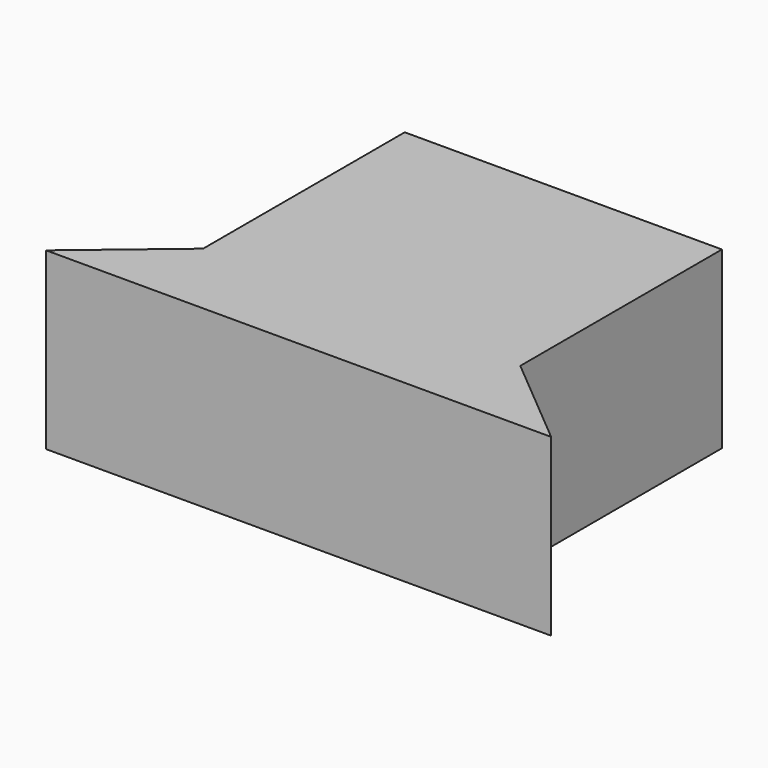
from build123d import *

# Parameters (mm, degrees)
F0_W     = 517.525
F0_H     = 400.05
F1_DEPTH = 88.9
F3_DEPTH = 406.4


with BuildPart() as f1:
    # F0 (on Top) → F1 (new body)
    with BuildSketch(Plane.XY):
        with Locations((258.7625, 176.492612)):
            Rectangle(F0_W, F0_H)
    extrude(amount=F1_DEPTH)

    # F2 (on face) → F3 (join)
    with BuildSketch(Plane.XY.offset(88.9)):
        Polygon((-109.5375, -315.632388), (627.0625, -315.632388), (627.0625, -132.547782), (258.7625, 176.492612), (-109.5375, -132.547782), align=None)
        Polygon((627.0625, -132.547782), (627.0625, -315.632388), (845.254237, -315.632388), align=None)
        Polygon((-327.729237, -315.632388), (-109.5375, -315.632388), (-109.5375, -132.547782), align=None)
        Polygon((258.7625, 176.492612), (627.0625, -132.547782), (627.0625, 452.717612), (-109.5375, 452.717612), (-109.5375, -132.547782), align=None)
    extrude(amount=F3_DEPTH)


solid = f1.part
